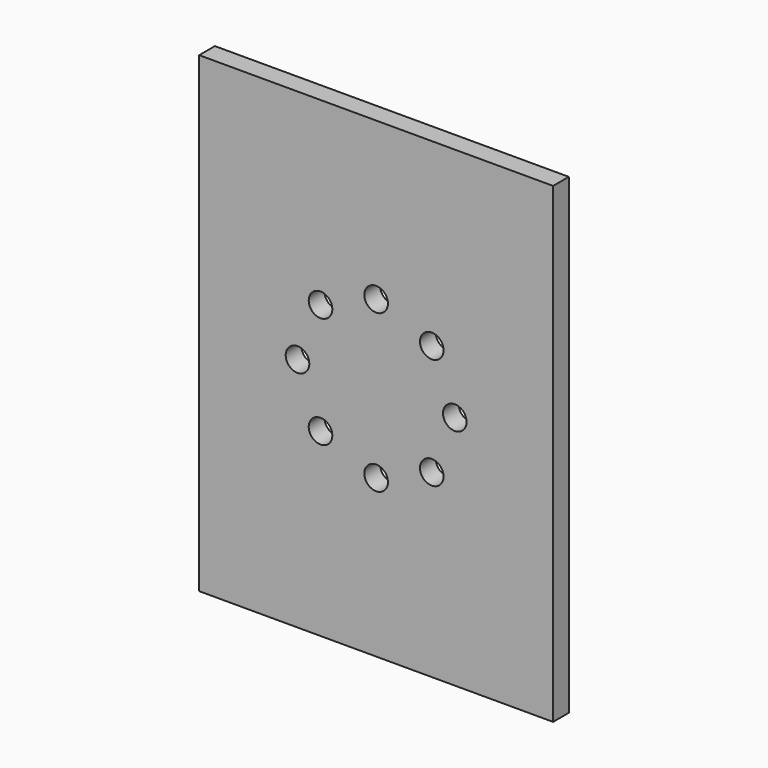
from build123d import *

# Parameters (mm, degrees)
F1_DEPTH = 5
F2_R     = 30
F3_DEPTH = 5
F4_R     = 3
F5_DEPTH = 5


with BuildPart() as f1:
    # F0 (on Front) → F1 (new body)
    with BuildSketch(Plane.XZ):
        Polygon((45, -60), (45, 0), (45, 60), (0, 60), (-45, 60), (-45, 0), (-45, -60), (0, -60), align=None)
    extrude(amount=F1_DEPTH)

    # F2 (on face) → F3 (join)
    with BuildSketch(Plane(origin=(0, 0, 0), x_dir=(-1, 0, 0), z_dir=(0, 1, 0))):
        with BuildLine():
            Line((-40, 55), (-40, -45))
            Line((-40, -45), (-18, -55))
            Line((-18, -55), (18, -55))
            Line((18, -55), (18, -50))
            ThreePointArc((18, -50), (22.393398, -39.393398), (33, -35))
            Line((33, -35), (40, -35))
            Line((40, -35), (40, 35))
            Line((40, 35), (33, 35))
            ThreePointArc((33, 35), (22.393398, 39.393398), (18, 50))
            Line((18, 50), (18, 55))
            Line((18, 55), (-40, 55))
        make_face()
        Circle(F2_R, mode=Mode.SUBTRACT)
    extrude(amount=F3_DEPTH)

    # F4 (on face) → F5 (cut)
    with BuildSketch(Plane(origin=(0, 0, 0), x_dir=(-1, 0, 0), z_dir=(0, 1, 0))):
        with Locations((-14.144271, -14.14)):
            Circle(F4_R)
        with Locations((-20, 0)):
            Circle(F4_R)
        with Locations((-14.144271, 14.14)):
            Circle(F4_R)
        with Locations((0, 20)):
            Circle(F4_R)
        with Locations((14.144271, 14.14)):
            Circle(F4_R)
        with Locations((20, 0)):
            Circle(F4_R)
        with Locations((14.144271, -14.14)):
            Circle(F4_R)
        with Locations((0, -20)):
            Circle(F4_R)
    extrude(amount=-F5_DEPTH, mode=Mode.SUBTRACT)


solid = f1.part
